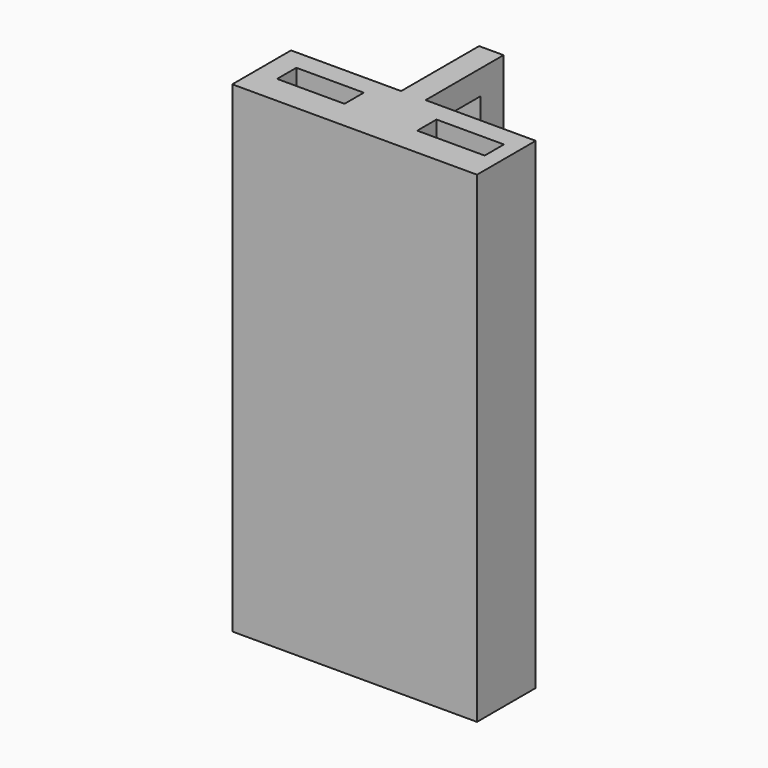
from build123d import *

# Parameters (mm, degrees)
F0_W      = 25.4
F0_H      = 50
F1_DEPTH  = 7.62
F2_W      = 7.112
F2_H      = 2.54
F3_DEPTH  = 1.27
F3_FACE_W = 7.112
F3_FACE_H = 2.54
F4_DEPTH  = 1.27
F6_DEPTH  = 2.54
F7_W      = 7
F7_H      = 2.5
F8_DEPTH  = 40


with BuildPart() as f1:
    # F0 (on Front) → F1 (new body)
    with BuildSketch(Plane.XZ):
        Rectangle(F0_W, F0_H)
    extrude(amount=F1_DEPTH)

    # F2 (on Right) → F3 (join)
    with BuildSketch(Plane.YZ):
        with Locations((3.556, 23.73)):
            Rectangle(F2_W, F2_H)
    extrude(amount=F3_DEPTH)

    # F3_face (on face) → F4 (join)
    with BuildSketch(Plane(origin=(0, 3.556, 23.73), x_dir=(0, 1, 0), z_dir=(-1, 0, 0))):
        Rectangle(F3_FACE_W, F3_FACE_H)
    extrude(amount=F4_DEPTH)

    # F5 (on face) → F6 (join)
    with BuildSketch(Plane(origin=(-1.27, 0, 0), x_dir=(0, -1, 0), z_dir=(-1, 0, 0))):
        Polygon((-7.112, 22.46), (-7.112, 25), (-10.112, 25), (-10.112, -0.4), (-7.112, -0.4), align=None)
    extrude(amount=-F6_DEPTH)

    # F7 (on face) → F8 (cut)
    with BuildSketch(Plane.XY.offset(25)):
        with Locations((-6.956602, -3.36)):
            Rectangle(F7_W, F7_H)
        with Locations((7.587198, -3.36)):
            Rectangle(F7_W, F7_H)
    extrude(amount=-F8_DEPTH, mode=Mode.SUBTRACT)


solid = f1.part
